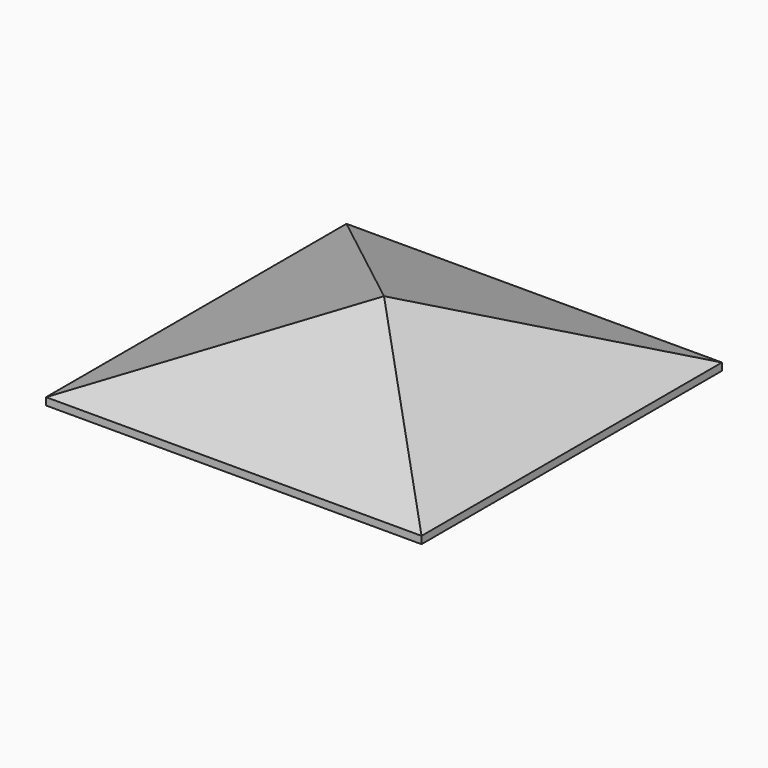
from build123d import *

# Parameters (mm, degrees)
F0_W      = 647.7
F0_H      = 647.7
F1_DEPTH  = 25.4
F1_FACE_W = 1295.4
F1_FACE_H = 1295.4


with BuildPart() as f1:
    # F0 (on Top) → F1 (new body)
    with BuildSketch(Plane.XY):
        with Locations((323.85, 323.85)):
            Rectangle(F0_W, F0_H)
        with Locations((-323.85, 323.85)):
            Rectangle(F0_W, F0_H)
        with Locations((-323.85, -323.85)):
            Rectangle(F0_W, F0_H)
        with Locations((323.85, -323.85)):
            Rectangle(F0_W, F0_H)
    extrude(amount=-F1_DEPTH)

    # F1_face (on face) → F3 section 0
    with BuildSketch(Plane.XY, mode=Mode.PRIVATE) as f3_s0:
        Rectangle(F1_FACE_W, F1_FACE_H)
    loft([Vertex(0, 0, 254), f3_s0.sketch])


solid = f1.part
